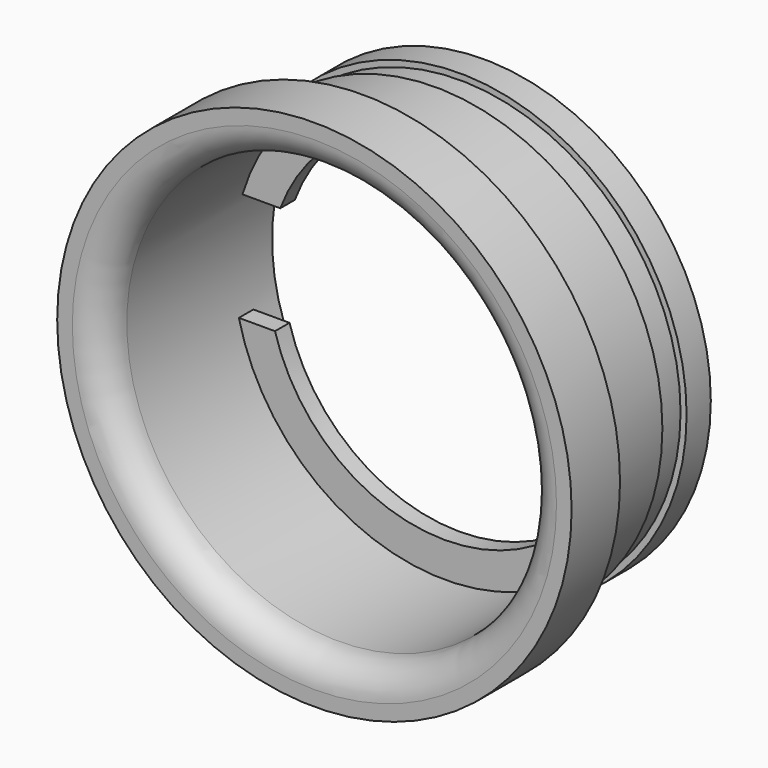
from build123d import *

# Parameters (mm, degrees)
F0_R      = 37.5
F0_R_2    = 35
F1_DEPTH  = 25
F2_R      = 42.5
F2_R_2    = 35
F3_DEPTH  = 10
F4_R      = 5
F6_R      = 37.5
F6_R_2    = 36.5
F7_DEPTH  = 5
F9_DEPTH  = 3
F11_DEPTH = 3


with BuildPart() as f1:
    # F0 (on Front) → F1 (new body)
    with BuildSketch(Plane.XZ):
        Circle(F0_R)
        Circle(F0_R_2, mode=Mode.SUBTRACT)
    extrude(amount=F1_DEPTH)

    # F2 (on face) → F3 (join)
    with BuildSketch(Plane.XZ.offset(25)):
        Circle(F2_R)
        Circle(F2_R_2, mode=Mode.SUBTRACT)
    extrude(amount=F3_DEPTH)

    # F4
    f4_edges = [f1.edges().sort_by_distance(p)[0] for p in [
        (-35, -35, 0),
    ]]
    fillet(f4_edges, radius=F4_R)

    # F6 (on offset) → F7 (cut)
    with BuildSketch(Plane.XZ.offset(5)):
        Circle(F6_R)
        Circle(F6_R_2, mode=Mode.SUBTRACT)
    extrude(amount=F7_DEPTH, mode=Mode.SUBTRACT)

    # F8 (on offset) → F9 (join)
    with BuildSketch(Plane.XZ.offset(5)):
        with BuildLine():
            Line((27.399526, 9.749617), (33.614654, 9.749617))
            ThreePointArc((33.614654, 9.749617), (0.227268, 34.999262), (-33.485206, 10.185331))
            Line((-33.485206, 10.185331), (-27.24056, 10.185331))
            ThreePointArc((-27.24056, 10.185331), (0.231904, 29.081528), (27.399526, 9.749617))
        make_face()
    extrude(amount=F9_DEPTH)

    # F10 (on offset) → F11 (join)
    with BuildSketch(Plane.XZ.offset(5)):
        with BuildLine():
            Line((-28.114079, -7.974047), (-34.079533, -7.974047))
            ThreePointArc((-34.079533, -7.974047), (-0.106236, -34.999839), (34.030498, -8.180783))
            Line((34.030498, -8.180783), (28.054619, -8.180783))
            ThreePointArc((28.054619, -8.180783), (-0.107558, -29.222855), (-28.114079, -7.974047))
        make_face()
    extrude(amount=F11_DEPTH)


solid = f1.part
